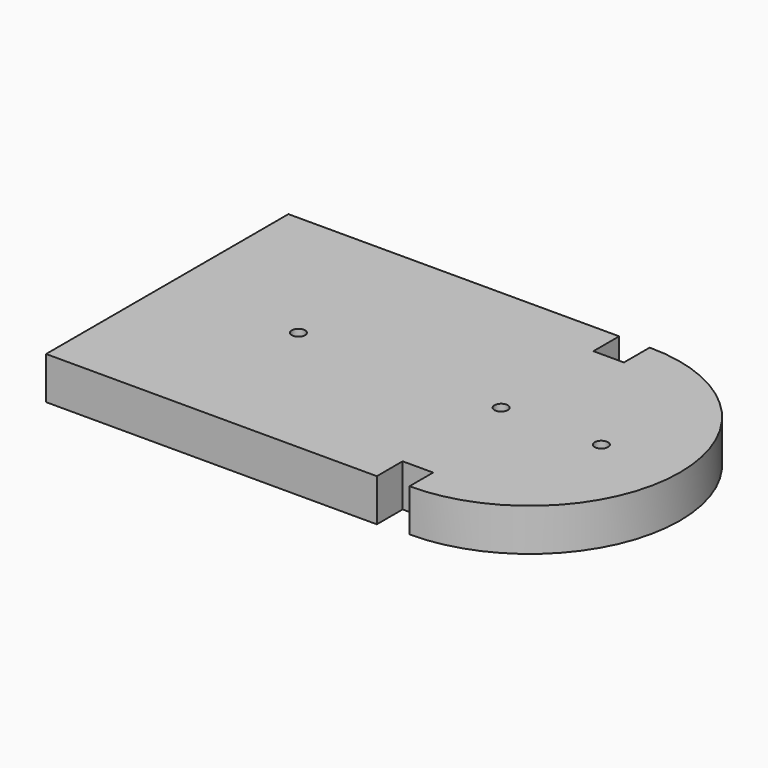
from build123d import *

# Parameters (mm, degrees)
F0_R     = 1
F1_DEPTH = 6.35


with BuildPart() as f1:
    # F0 (on Top) → F1 (new body)
    with BuildSketch(Plane.XY):
        with BuildLine():
            Line((-44.45, 22.732547), (-44.45, -22.6289))
            Line((-44.45, -22.6289), (5.08, -22.6289))
            Line((5.08, -22.6289), (5.08, -17.8029))
            Line((5.08, -17.8029), (9.652, -17.8029))
            Line((9.652, -17.8029), (9.652, -22.248723))
            ThreePointArc((9.652, -22.248723), (32.178133, 0.241912), (9.652, 22.732547))
            Line((9.652, 22.732547), (9.652, 17.906547))
            Line((9.652, 17.906547), (5.08, 17.906547))
            Line((5.08, 17.906547), (5.08, 22.732547))
            Line((5.08, 22.732547), (-44.45, 22.732547))
        make_face()
        with Locations((-24.760989, 0)):
            Circle(F0_R, mode=Mode.SUBTRACT)
        with Locations((5.589839, 0)):
            Circle(F0_R, mode=Mode.SUBTRACT)
        with Locations((20.59151, 0)):
            Circle(F0_R, mode=Mode.SUBTRACT)
    extrude(amount=F1_DEPTH)


solid = f1.part
